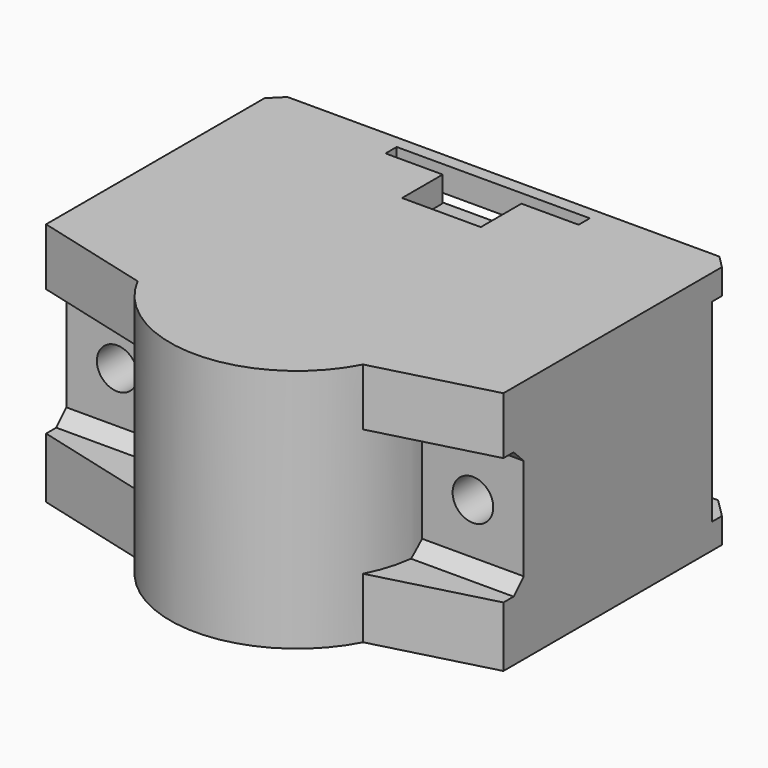
from build123d import *

# Parameters (mm, degrees)
BOX022_W          = 30.4
BOX022_H          = 2.2
BOX022_DEPTH      = 4
BOX023_W          = 12.4
BOX023_H          = 10
BOX023_DEPTH      = 4
CYLINDER036_R     = 3.2
CYLINDER036_DEPTH = 46
CYLINDER035_R     = 3.2
CYLINDER035_DEPTH = 46
CYLINDER034_R     = 20
CYLINDER034_DEPTH = 38.5
BOX020_W          = 72
BOX020_H          = 9
BOX020_DEPTH      = 20
BOX019_W          = 72
BOX019_H          = 5
BOX019_DEPTH      = 4
BOX021_W          = 46
BOX021_H          = 2
BOX021_DEPTH      = 6
BOX018_W          = 72
BOX018_H          = 4
BOX018_DEPTH      = 4
BOX017_W          = 72
BOX017_H          = 46
BOX017_DEPTH      = 38.5
CHAMFER038_SIZE   = 2
CHAMFER039_SIZE2  = 19
CHAMFER039_SIZE   = 5
CHAMFER040_SIZE2  = 19
CHAMFER040_SIZE   = 5
CHAMFER041_SIZE2  = 19
CHAMFER041_SIZE   = 5
CHAMFER046_SIZE   = 2
CHAMFER047_SIZE   = 3


with BuildPart() as cube022:
    # Box022 → Box022 (new body)
    with BuildSketch(Plane(origin=(94.8, 329.8, 60), x_dir=(1, 0, 0), z_dir=(0, 0, 1))):
        with Locations((15.2, 1.1)):
            Rectangle(BOX022_W, BOX022_H)
    extrude(amount=BOX022_DEPTH)


with BuildPart() as fusion008004:
    # Box023 → Box023 (new body)
    with BuildSketch(Plane(origin=(103.8, 321.8, 60), x_dir=(1, 0, 0), z_dir=(0, 0, 1))):
        with Locations((6.2, 5)):
            Rectangle(BOX023_W, BOX023_H)
    extrude(amount=BOX023_DEPTH)

    # Fusion008004: union Cube022
    add(cube022.part)


with BuildPart() as cylinder011:
    # Cylinder036 → Cylinder036 (new body)
    with BuildSketch(Plane(origin=(138, 330, 45), x_dir=(1, 0, 0), z_dir=(0, -1, 0))):
        Circle(CYLINDER036_R)
    extrude(amount=CYLINDER036_DEPTH)


with BuildPart() as fusion008016:
    # Cylinder035 → Cylinder035 (new body)
    with BuildSketch(Plane(origin=(82, 330, 45), x_dir=(1, 0, 0), z_dir=(0, -1, 0))):
        Circle(CYLINDER035_R)
    extrude(amount=CYLINDER035_DEPTH)

    # Fusion008016: union Cylinder011
    add(cylinder011.part)


with BuildPart() as cylinder009:
    # Cylinder034 → Cylinder034 (new body)
    with BuildSketch(Plane(origin=(110, 293.41, 25.5), x_dir=(0, -1, 0), z_dir=(0, 0, 1))):
        Circle(CYLINDER034_R)
    extrude(amount=CYLINDER034_DEPTH)


with BuildPart() as cube020:
    # Box020 → Box020 (new body)
    with BuildSketch(Plane(origin=(74, 284, 35), x_dir=(1, 0, 0), z_dir=(0, 0, 1))):
        with Locations((36, 4.5)):
            Rectangle(BOX020_W, BOX020_H)
    extrude(amount=BOX020_DEPTH)


with BuildPart() as cube019:
    # Box019 → Box019 (new body)
    with BuildSketch(Plane(origin=(74, 330, 25.5), x_dir=(1, 0, 0), z_dir=(0, 0, 1))):
        with Locations((36, 2.5)):
            Rectangle(BOX019_W, BOX019_H)
    extrude(amount=BOX019_DEPTH)


with BuildPart() as cube021:
    # Box021 → Box021 (new body)
    with BuildSketch(Plane(origin=(87, 330, 42), x_dir=(1, 0, 0), z_dir=(0, 0, 1))):
        with Locations((23, 1)):
            Rectangle(BOX021_W, BOX021_H)
    extrude(amount=BOX021_DEPTH)


with BuildPart() as cube018:
    # Box018 → Box018 (new body)
    with BuildSketch(Plane(origin=(74, 330, 60), x_dir=(1, 0, 0), z_dir=(0, 0, 1))):
        with Locations((36, 2)):
            Rectangle(BOX018_W, BOX018_H)
    extrude(amount=BOX018_DEPTH)


with BuildPart() as chamfer047:
    # Box017 → Box017 (new body)
    with BuildSketch(Plane(origin=(74, 284, 25.5), x_dir=(1, 0, 0), z_dir=(0, 0, 1))):
        with Locations((36, 23)):
            Rectangle(BOX017_W, BOX017_H)
    extrude(amount=BOX017_DEPTH)

    # Fusion008017: union Cube019, Cube021, Cube018
    add(cube019.part)
    add(cube021.part)
    add(cube018.part)

    # Cut002003021004: cut Cube020
    add(cube020.part, mode=Mode.SUBTRACT)

    # Chamfer038
    chamfer038_edges = [chamfer047.edges().sort_by_distance(p)[0] for p in [
        (110, 293, 35),
        (110, 293, 55),
    ]]
    chamfer(chamfer038_edges, length=CHAMFER038_SIZE)

    # Chamfer039
    chamfer039_edges = [chamfer047.edges().sort_by_distance(p)[0] for p in [
        (74, 284, 30.25),
        (74, 284, 59.5),
    ]]
    chamfer039_side = chamfer047.faces().sort_by_distance((74, 309.050993, 44.722414))[0]
    chamfer(chamfer039_edges, length=CHAMFER039_SIZE, length2=CHAMFER039_SIZE2, reference=chamfer039_side)

    # Chamfer040
    chamfer040_edges = [chamfer047.edges().sort_by_distance(p)[0] for p in [
        (146, 284, 59.5),
    ]]
    chamfer040_side = chamfer047.faces().sort_by_distance((146, 309.050993, 44.722414))[0]
    chamfer(chamfer040_edges, length=CHAMFER040_SIZE, length2=CHAMFER040_SIZE2, reference=chamfer040_side)

    # Chamfer041
    chamfer041_edges = [chamfer047.edges().sort_by_distance(p)[0] for p in [
        (146, 284, 30.25),
    ]]
    chamfer041_side = chamfer047.faces().sort_by_distance((146, 309.705699, 44.293387))[0]
    chamfer(chamfer041_edges, length=CHAMFER041_SIZE, length2=CHAMFER041_SIZE2, reference=chamfer041_side)

    # Fusion008018: union Cylinder009
    add(cylinder009.part)

    # Cut002003021005: cut Fusion008016
    add(fusion008016.part, mode=Mode.SUBTRACT)

    # Cut002003021006: cut Fusion008004
    add(fusion008004.part, mode=Mode.SUBTRACT)

    # Chamfer046
    chamfer046_edges = [chamfer047.edges().sort_by_distance(p)[0] for p in [
        (74, 334, 62),
        (146, 334, 62),
    ]]
    chamfer(chamfer046_edges, length=CHAMFER046_SIZE)

    # Chamfer047
    chamfer047_edges = [chamfer047.edges().sort_by_distance(p)[0] for p in [
        (74, 335, 27.5),
        (146, 335, 27.5),
    ]]
    chamfer(chamfer047_edges, length=CHAMFER047_SIZE)


solid = chamfer047.part
